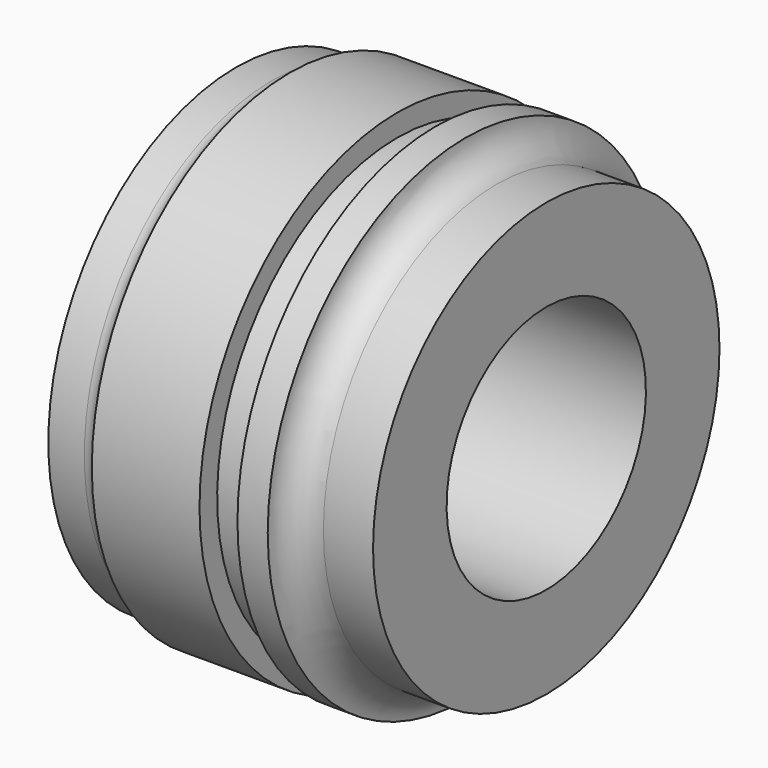
from build123d import *


with BuildPart() as f1:
    # F0 (on Front) → F1 (revolve)
    with BuildSketch(Plane.XZ):
        with BuildLine():
            Line((-41.021, 25.5016), (0, 25.5016))
            Line((0, 25.5016), (0, 44.323))
            Line((0, 44.323), (-10.16, 44.323))
            ThreePointArc((-10.16, 44.323), (-14.636637, 46.169422), (-16.509886, 50.6349))
            Line((-16.509886, 50.6349), (-16.51, 50.6349))
            Line((-16.51, 50.6349), (-22.7076, 50.6349))
            Line((-22.7076, 50.6349), (-22.7076, 46.1137))
            Line((-22.7076, 46.1137), (-30.48, 46.1137))
            Line((-30.48, 46.1137), (-30.48, 50.6349))
            Line((-30.48, 50.6349), (-52.324, 50.6349))
            Line((-52.324, 50.6349), (-52.524339, 50.6349))
            ThreePointArc((-52.524339, 50.6349), (-53.912407, 48.758841), (-56.134, 48.0441))
            Line((-56.134, 48.0441), (-63.5, 48.0441))
            Line((-63.5, 48.0441), (-63.5, 25.5016))
            Line((-63.5, 25.5016), (-60.8584, 25.5016))
            Line((-60.8584, 25.5016), (-60.8584, 29.845))
            Line((-60.8584, 29.845), (-57.8358, 29.845))
            Line((-57.8358, 29.845), (-57.8358, 25.5016))
            Line((-57.8358, 25.5016), (-51.3842, 25.5016))
            Line((-51.3842, 25.5016), (-51.3842, 32.5755))
            Line((-51.3842, 32.5755), (-41.021, 32.5755))
            Line((-41.021, 32.5755), (-41.021, 25.5016))
        make_face()
    revolve(axis=Axis((-40.4241, 0, 0), (-1, 0, 0)))


solid = f1.part
